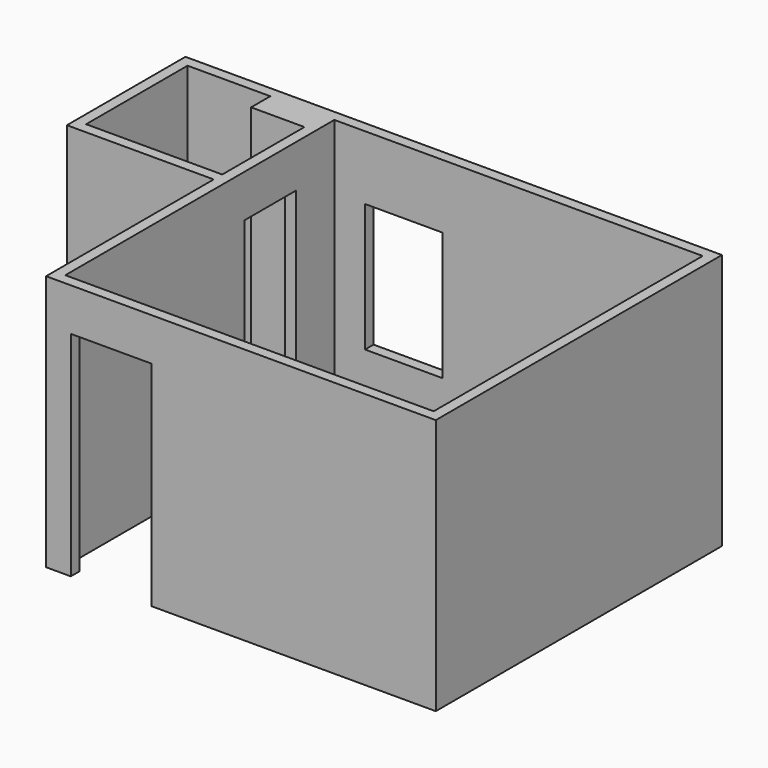
from build123d import *

# Parameters (mm, degrees)
F0_W     = 3505.2
F0_H     = 3200.4
F1_DEPTH = 2438.4
F2_W     = 768.35
F2_H     = 2032
F3_DEPTH = 101.6
F4_W     = 736.6
F4_H     = 1219.2
F5_DEPTH = 101.6
F6_W     = 609.6
F6_H     = 2032
F7_DEPTH = 101.6


with BuildPart() as f1:
    # F0 (on Top) → F1 (new body)
    with BuildSketch(Plane.XY):
        Polygon((-3606.8, -101.6), (101.6, -101.6), (101.6, 3302), (-5003.8, 3302), (-5003.8, 1892.3), (-3606.8, 1892.3), align=None)
        Polygon((-4902.2, 1993.9), (-4902.2, 3200.4), (-4114.8, 3200.4), (-4114.8, 2971.8), (-3606.8, 2971.8), (-3606.8, 1993.9), align=None, mode=Mode.SUBTRACT)
        with Locations((-1752.6, 1600.2)):
            Rectangle(F0_W, F0_H, mode=Mode.SUBTRACT)
    extrude(amount=F1_DEPTH)

    # F2 (on face) → F3 (cut)
    with BuildSketch(Plane.XZ.offset(101.6)):
        with Locations((-2987.675, 1016)):
            Rectangle(F2_W, F2_H)
    extrude(amount=-F3_DEPTH, mode=Mode.SUBTRACT)

    # F4 (on face) → F5 (cut)
    with BuildSketch(Plane.XZ.offset(-3200.4)):
        with Locations((-2844.8, 1219.2)):
            Rectangle(F4_W, F4_H)
    extrude(amount=-F5_DEPTH, mode=Mode.SUBTRACT)

    # F6 (on face) → F7 (cut)
    with BuildSketch(Plane.YZ.offset(-3505.2)):
        with Locations((2438.4, 1016)):
            Rectangle(F6_W, F6_H)
    extrude(amount=-F7_DEPTH, mode=Mode.SUBTRACT)


solid = f1.part
